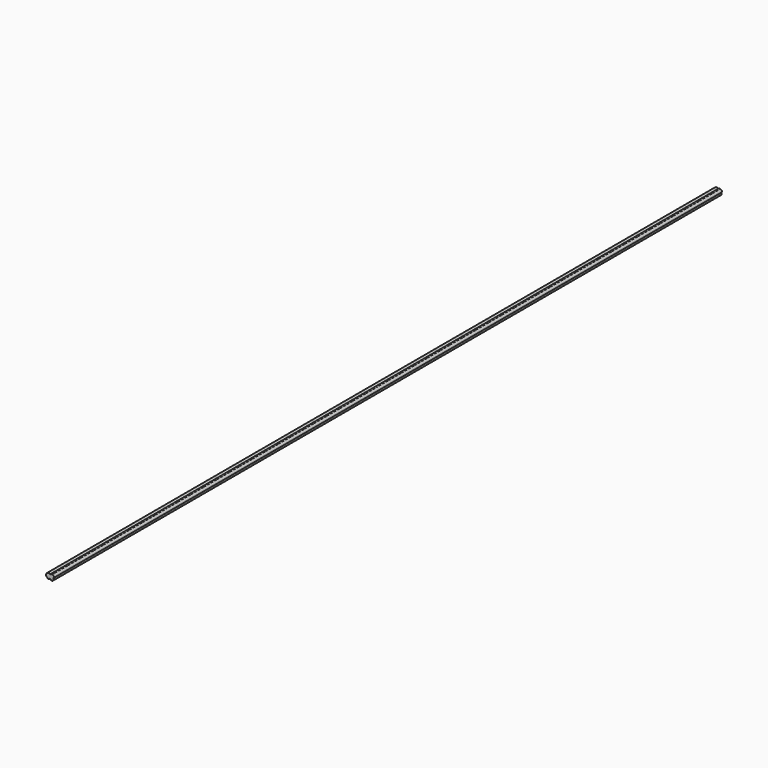
from build123d import *

# Parameters (mm, degrees)
F1_DEPTH = 11023.6


with BuildPart() as f1:
    # F0 (on Front) → F1 (new body)
    with BuildSketch(Plane.XZ):
        with BuildLine():
            ThreePointArc((43.697246, 9.058607), (48.899054, 31.771814), (28.930249, 43.779951))
            ThreePointArc((28.930249, 43.779951), (14.845513, 46.810139), (1.985794, 40.314798))
            ThreePointArc((1.985794, 40.314798), (-47.454546, 34.632477), (-33.370999, -13.098957))
            ThreePointArc((-33.370999, -13.098957), (-18.032149, -22.251919), (-3.884838, -11.347304))
            ThreePointArc((-3.884838, -11.347304), (-1.78059, -10.000493), (0.214021, -8.496072))
            ThreePointArc((0.214021, -8.496072), (32.466019, -25.753129), (43.697246, 9.058607))
        make_face()
        with BuildLine():
            ThreePointArc((12.164843, 16.72465), (12.076617, 16.952613), (11.991205, 17.181644))
            ThreePointArc((11.991205, 17.181644), (12.075298, 17.228048), (12.159576, 17.274114))
            ThreePointArc((12.159576, 17.274114), (12.163371, 16.999393), (12.164843, 16.72465))
        make_face(mode=Mode.SUBTRACT)
    extrude(amount=F1_DEPTH)


solid = f1.part
